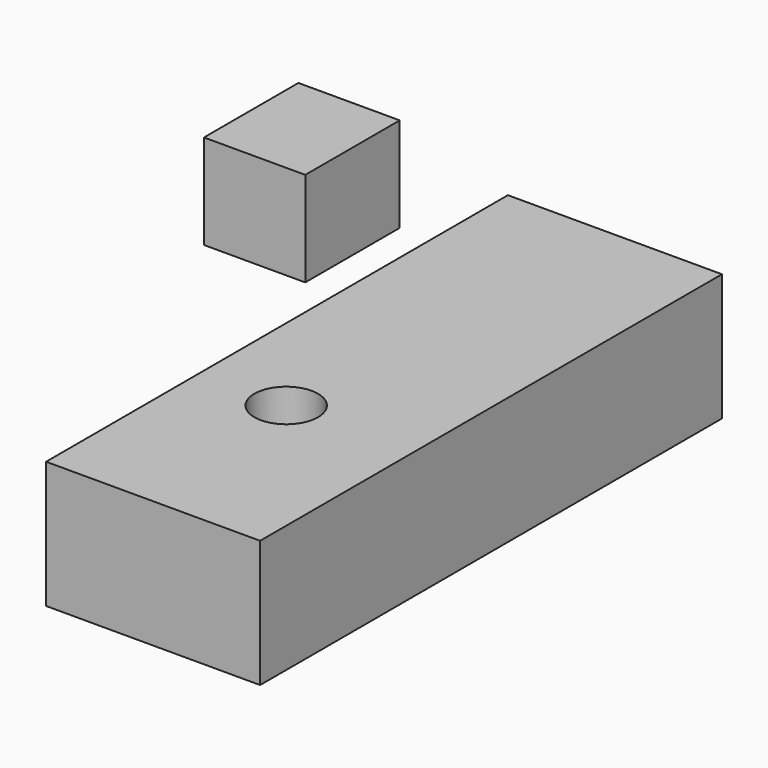
from build123d import *

# Parameters (mm, degrees)
F0_W     = 56.508717
F0_H     = 33.535544
F1_DEPTH = 152.4
F2_R     = 8.402321
F3_DEPTH = 63.754
F4_W     = 26.747964
F4_H     = 31.165645
F5_DEPTH = 25


with BuildPart() as f1:
    # F0 (on Front) → F1 (new body)
    with BuildSketch(Plane.XZ):
        with Locations((5.281189, 0.13203)):
            Rectangle(F0_W, F0_H)
    extrude(amount=F1_DEPTH)

    # F2 (on face) → F3 (cut)
    with BuildSketch(Plane.XY.offset(16.899802)):
        with Locations((0, -101.870343)):
            Circle(F2_R)
    extrude(amount=-F3_DEPTH, mode=Mode.SUBTRACT)


with BuildPart() as f5:
    # F4 (on Top) → F5 (new body)
    with BuildSketch(Plane.XY):
        with Locations((-64.904783, -15.582822)):
            Rectangle(F4_W, F4_H)
    extrude(amount=F5_DEPTH)


solid = Compound([f1.part, f5.part])
